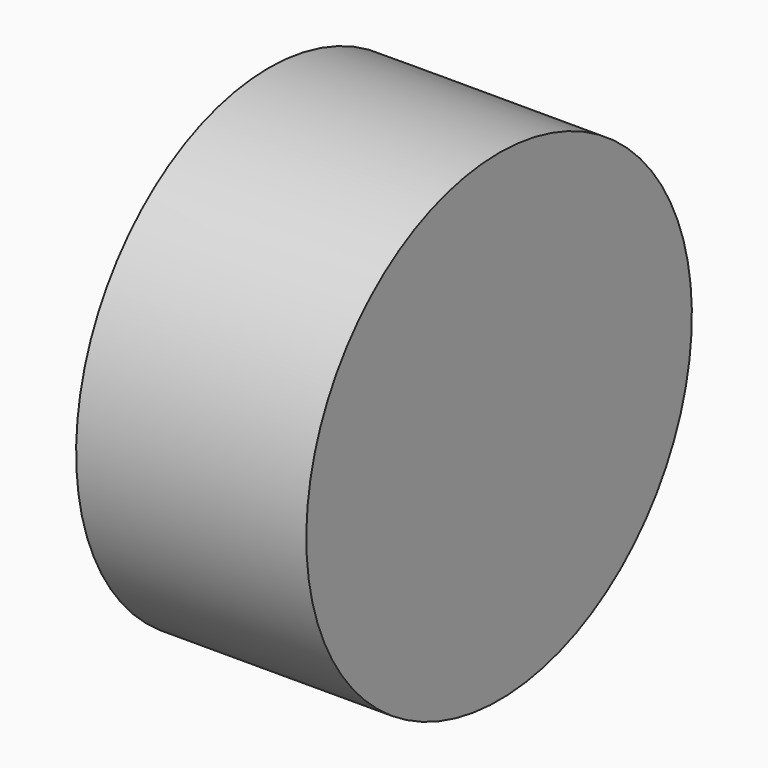
from build123d import *

# Parameters (mm, degrees)
F0_W     = 51.9229983911
F0_H     = 54.352145642
F3_D     = 6.35
F3_DEPTH = 54.353145642


with BuildPart() as f1:
    # F0 (on Front) → F1 (revolve)
    with BuildSketch(Plane.XZ):
        with Locations((-13.5121238418, 10.0202281028)):
            Rectangle(F0_W, F0_H)
    revolve(axis=Axis((-13.5121238418, 0, -17.1558447182), (-1, 0, 0)))

    # F3 (through all, one way)
    with BuildSketch(Plane.XZ):
        with Locations((-27.1559562534, 25.5625788122), (-38.0183383822, -8.9952358976), (-11.4055015147, -8.9952358976)):
            Circle(F3_D / 2)
    extrude(amount=-F3_DEPTH, mode=Mode.SUBTRACT)


solid = f1.part
